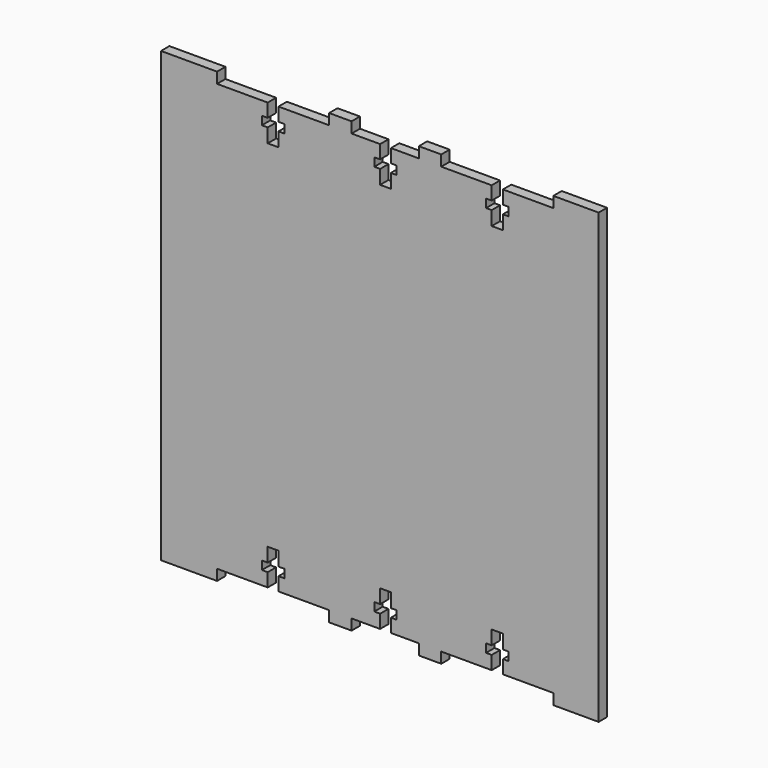
from build123d import *

# Parameters (mm, degrees)
F1_DEPTH = 2.9718


with BuildPart() as f1:
    # F0 (on Front) → F1 (new body)
    with BuildSketch(Plane.XZ):
        Polygon((-63.5, -60.452), (-63.5, -63.5), (-47.625, -63.5), (-47.625, -60.452), (-33.274, -60.452), (-33.274, -56.642), (-34.925, -56.642), (-34.925, -54.26075), (-33.274, -54.26075), (-33.274, -50.292), (-31.75, -50.292), (-30.226, -50.292), (-30.226, -54.26075), (-28.575, -54.26075), (-28.575, -56.642), (-30.226, -56.642), (-30.226, -60.452), (-15.875, -60.452), (-15.875, -63.5), (-9.525, -63.5), (-9.525, -60.452), (-1.436332, -60.452), (-1.436332, -56.642), (-3.087332, -56.642), (-3.087332, -54.26075), (-1.436332, -54.26075), (-1.436332, -50.292), (0.087668, -50.292), (1.611668, -50.292), (1.611668, -54.26075), (3.262668, -54.26075), (3.262668, -56.642), (1.611668, -56.642), (1.611668, -60.452), (9.525, -60.452), (9.525, -63.5), (15.875, -63.5), (15.875, -60.452), (30.1625, -60.452), (30.1625, -56.642), (28.575, -56.642), (28.575, -54.26075), (30.1625, -54.26075), (30.1625, -50.292), (31.75, -50.292), (33.3375, -50.292), (33.3375, -54.26075), (34.925, -54.26075), (34.925, -56.642), (33.3375, -56.642), (33.3375, -60.452), (47.625, -60.452), (47.625, -63.5), (60.452, -63.5), (60.452, 0), (-63.5, 0), align=None)
        Polygon((-63.5, 60.452), (-63.5, 0), (60.452, 0), (60.452, 63.5), (47.625, 63.5), (47.625, 60.452), (33.3375, 60.452), (33.3375, 56.642), (34.925, 56.642), (34.925, 54.26075), (33.3375, 54.26075), (33.3375, 50.292), (31.75, 50.292), (30.1625, 50.292), (30.1625, 54.26075), (28.575, 54.26075), (28.575, 56.642), (30.1625, 56.642), (30.1625, 60.452), (15.875, 60.452), (15.875, 63.5), (9.525, 63.5), (9.525, 60.452), (1.611668, 60.452), (1.611668, 56.642), (3.262668, 56.642), (3.262668, 54.26075), (1.611668, 54.26075), (1.611668, 50.292), (0.087668, 50.292), (-1.436332, 50.292), (-1.436332, 54.26075), (-3.087332, 54.26075), (-3.087332, 56.642), (-1.436332, 56.642), (-1.436332, 60.452), (-9.525, 60.452), (-9.525, 63.5), (-15.875, 63.5), (-15.875, 60.452), (-30.226, 60.452), (-30.226, 56.642), (-28.575, 56.642), (-28.575, 54.26075), (-30.226, 54.26075), (-30.226, 50.292), (-31.75, 50.292), (-33.274, 50.292), (-33.274, 54.26075), (-34.925, 54.26075), (-34.925, 56.642), (-33.274, 56.642), (-33.274, 60.452), (-47.625, 60.452), (-47.625, 63.5), (-63.5, 63.5), align=None)
    extrude(amount=F1_DEPTH)


solid = f1.part
